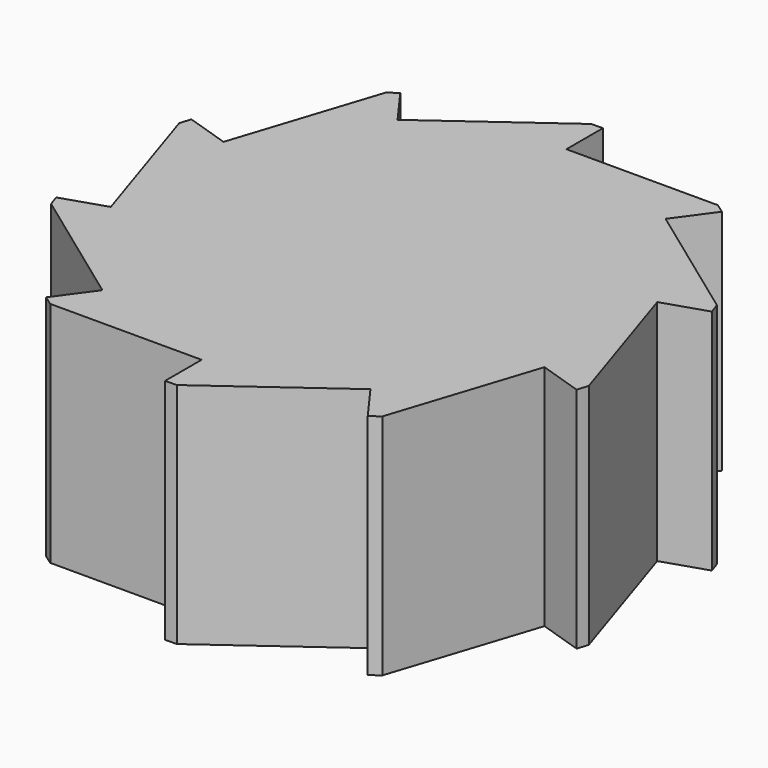
from build123d import *

# Parameters (mm, degrees)
F1_DEPTH = 25


with BuildPart() as f1:
    # F0 (on Top) → F1 (new body)
    with BuildSketch(Plane.XY):
        with BuildLine():
            Line((0, 25), (0, 30))
            ThreePointArc((0, 30), (-0.639446, 29.993184), (-1.278602, 29.972741))
            Line((-1.278602, 29.972741), (-14.694631, 20.225425))
            Line((-14.694631, 20.225425), (-17.633558, 24.27051))
            ThreePointArc((-17.633558, 24.27051), (-18.146874, 23.889139), (-18.651946, 23.496913))
            Line((-18.651946, 23.496913), (-23.776413, 7.725425))
            Line((-23.776413, 7.725425), (-28.531695, 9.27051))
            ThreePointArc((-28.531695, 9.27051), (-28.722813, 8.660254), (-28.90088, 8.046063))
            Line((-28.90088, 8.046063), (-23.776413, -7.725425))
            Line((-23.776413, -7.725425), (-28.531695, -9.27051))
            ThreePointArc((-28.531695, -9.27051), (-28.327614, -9.876553), (-28.11066, -10.478109))
            Line((-28.11066, -10.478109), (-14.694631, -20.225425))
            Line((-14.694631, -20.225425), (-17.633558, -24.27051))
            ThreePointArc((-17.633558, -24.27051), (-17.112228, -24.640853), (-16.583124, -25))
            Line((-16.583124, -25), (0, -25))
            Line((0, -25), (0, -30))
            ThreePointArc((0, -30), (0.639446, -29.993184), (1.278602, -29.972741))
            Line((1.278602, -29.972741), (14.694631, -20.225425))
            Line((14.694631, -20.225425), (17.633558, -24.27051))
            ThreePointArc((17.633558, -24.27051), (18.146874, -23.889139), (18.651946, -23.496913))
            Line((18.651946, -23.496913), (23.776413, -7.725425))
            Line((23.776413, -7.725425), (28.531695, -9.27051))
            ThreePointArc((28.531695, -9.27051), (28.722813, -8.660254), (28.90088, -8.046063))
            Line((28.90088, -8.046063), (23.776413, 7.725425))
            Line((23.776413, 7.725425), (28.531695, 9.27051))
            ThreePointArc((28.531695, 9.27051), (28.327614, 9.876553), (28.11066, 10.478109))
            Line((28.11066, 10.478109), (14.694631, 20.225425))
            Line((14.694631, 20.225425), (17.633558, 24.27051))
            ThreePointArc((17.633558, 24.27051), (17.112228, 24.640853), (16.583124, 25))
            Line((16.583124, 25), (0, 25))
        make_face()
    extrude(amount=F1_DEPTH)


solid = f1.part
